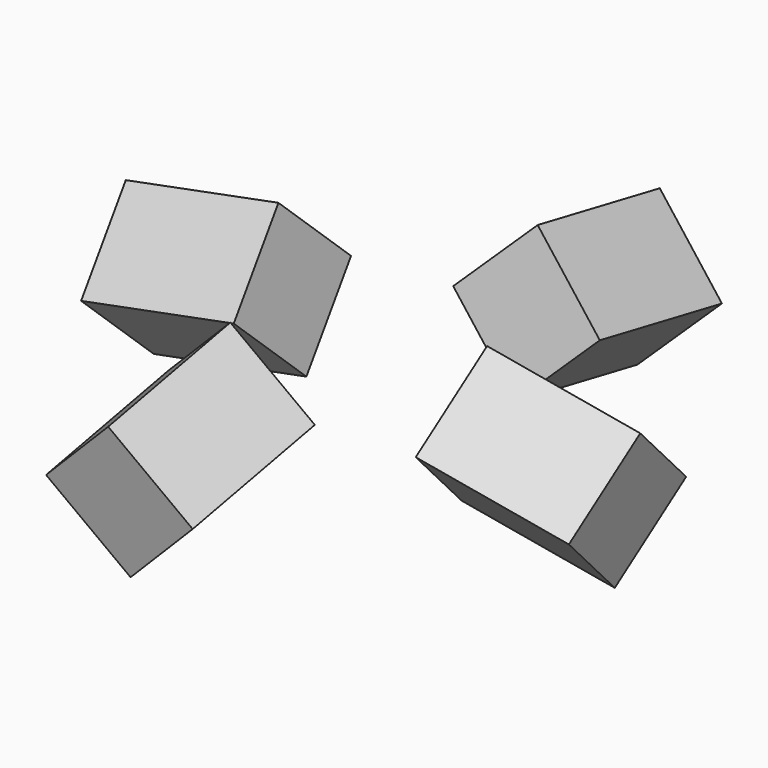
from build123d import *

# Parameters (mm, degrees)
BOX091_W               = 10
BOX091_H               = 15
BOX091_DEPTH           = 10
BOX091_ROLL_ANGLE      = -15.370679
BOX091_PITCH_ANGLE     = 43.956736
BOX091_PLACEMENT_ANGLE = 79.197306
BOX090_W               = 15
BOX090_H               = 10
BOX090_DEPTH           = 10
BOX090_ROLL_ANGLE      = 45
BOX090_PITCH_ANGLE     = 10
BOX092_W               = 10
BOX092_H               = 15
BOX092_DEPTH           = 10
BOX092_ROLL_ANGLE      = -15.370679
BOX092_PITCH_ANGLE     = 43.956736
BOX092_PLACEMENT_ANGLE = 169.197306
BOX089_W               = 10
BOX089_H               = 15
BOX089_DEPTH           = 10
BOX089_ROLL_ANGLE      = -15.370679
BOX089_PITCH_ANGLE     = 43.956736
BOX089_PLACEMENT_ANGLE = -10.802694


with BuildPart() as cube075:
    # Box091 → Box091 (new body)
    with BuildSketch(Plane.XY):
        with Locations((5, 7.5)):
            Rectangle(BOX091_W, BOX091_H)
    extrude(amount=BOX091_DEPTH)


with BuildPart() as cube075_1:
    # Box091 roll: moved
    add(cube075.part.rotate(Axis((0, 0, 0), (1, 0, 0)), BOX091_ROLL_ANGLE))


with BuildPart() as cube075_2:
    # Box091 pitch: moved
    add(cube075_1.part.rotate(Axis((0, 0, 0), (0, 1, 0)), BOX091_PITCH_ANGLE))


with BuildPart() as cube075_3:
    # Box091 placement: moved
    add(cube075_2.part.moved(Location((7.9081, 17, 9.95))).rotate(Axis((7.9081, 17, 9.95), (0, 0, 1)), BOX091_PLACEMENT_ANGLE))


with BuildPart() as cube074:
    # Box090 → Box090 (new body)
    with BuildSketch(Plane.XY):
        with Locations((7.5, 5)):
            Rectangle(BOX090_W, BOX090_H)
    extrude(amount=BOX090_DEPTH)


with BuildPart() as cube074_1:
    # Box090 roll: moved
    add(cube074.part.rotate(Axis((0, 0, 0), (1, 0, 0)), BOX090_ROLL_ANGLE))


with BuildPart() as cube074_2:
    # Box090 pitch: moved
    add(cube074_1.part.rotate(Axis((0, 0, 0), (0, 1, 0)), BOX090_PITCH_ANGLE))


with BuildPart() as cube074_3:
    # Box090 placement: moved
    add(cube074_2.part.moved(Location((30.848083, 15.8, 2.860186))))


with BuildPart() as cube076:
    # Box092 → Box092 (new body)
    with BuildSketch(Plane.XY):
        with Locations((5, 7.5)):
            Rectangle(BOX092_W, BOX092_H)
    extrude(amount=BOX092_DEPTH)


with BuildPart() as cube076_1:
    # Box092 roll: moved
    add(cube076.part.rotate(Axis((0, 0, 0), (1, 0, 0)), BOX092_ROLL_ANGLE))


with BuildPart() as cube076_2:
    # Box092 pitch: moved
    add(cube076_1.part.rotate(Axis((0, 0, 0), (0, 1, 0)), BOX092_PITCH_ANGLE))


with BuildPart() as cube076_3:
    # Box092 placement: moved
    add(cube076_2.part.moved(Location((23, 7.9081, 9.95))).rotate(Axis((23, 7.9081, 9.95), (0, 0, 1)), BOX092_PLACEMENT_ANGLE))


with BuildPart() as fusion048:
    # Box089 → Box089 (new body)
    with BuildSketch(Plane.XY):
        with Locations((5, 7.5)):
            Rectangle(BOX089_W, BOX089_H)
    extrude(amount=BOX089_DEPTH)


with BuildPart() as fusion048_1:
    # Box089 roll: moved
    add(fusion048.part.rotate(Axis((0, 0, 0), (1, 0, 0)), BOX089_ROLL_ANGLE))


with BuildPart() as fusion048_2:
    # Box089 pitch: moved
    add(fusion048_1.part.rotate(Axis((0, 0, 0), (0, 1, 0)), BOX089_PITCH_ANGLE))


with BuildPart() as fusion048_3:
    # Box089 placement: moved
    add(fusion048_2.part.moved(Location((17, 32.0919, 9.95))).rotate(Axis((17, 32.0919, 9.95), (0, 0, 1)), BOX089_PLACEMENT_ANGLE))

    # Fusion048: union Cube075, Cube074, Cube076
    add(cube075_3.part)
    add(cube074_3.part)
    add(cube076_3.part)


solid = fusion048_3.part
